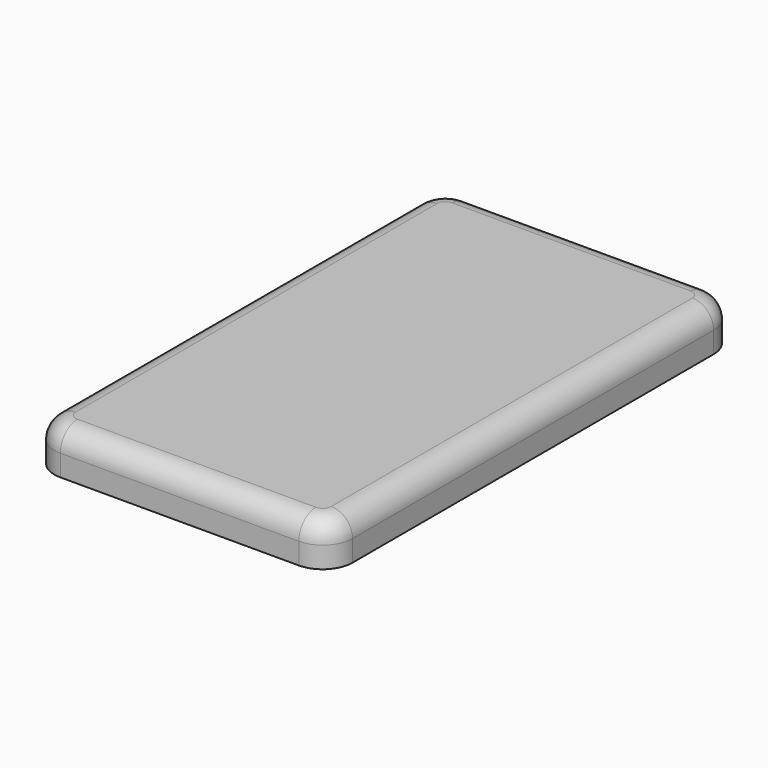
from build123d import *

# Parameters (mm, degrees)
F1_DEPTH = 10
F2_T     = -3
F3_R     = 5


with BuildPart() as f1:
    # F0 (on Top) → F1 (new body)
    with BuildSketch(Plane.XY):
        with BuildLine():
            ThreePointArc((-28, 60), (-32.949747, 57.949747), (-35, 53))
            Line((-35, 53), (-35, 0))
            Line((-35, 0), (-35, -53))
            ThreePointArc((-35, -53), (-32.949747, -57.949747), (-28, -60))
            Line((-28, -60), (28, -60))
            ThreePointArc((28, -60), (32.949747, -57.949747), (35, -53))
            Line((35, -53), (35, 0))
            Line((35, 0), (35, 53))
            ThreePointArc((35, 53), (32.949747, 57.949747), (28, 60))
            Line((28, 60), (0, 60))
            Line((0, 60), (-28, 60))
        make_face()
    extrude(amount=F1_DEPTH)

    # F2
    f2_openings = [f1.faces().sort_by_distance(p)[0] for p in [
        (0, 0, 0),
    ]]
    offset(amount=F2_T, openings=f2_openings)

    # F3
    f3_edges = [f1.edges().sort_by_distance(p)[0] for p in [
        (-32.949747, 57.949747, 10),
    ]]
    fillet(f3_edges, radius=F3_R)


solid = f1.part
